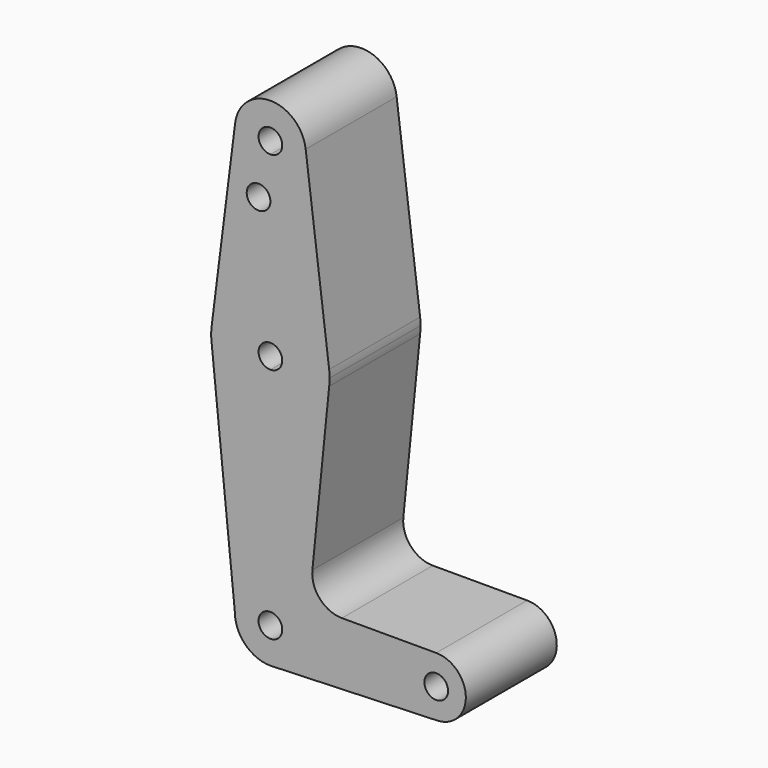
from build123d import *

# Parameters (mm, degrees)
F0_R     = 3.175
F1_DEPTH = 30.48


with BuildPart() as f1:
    # F0 (on Front) → F1 (new body)
    with BuildSketch(Plane.XZ):
        with BuildLine():
            ThreePointArc((3.175, 0), (-2.2450640303, -2.2450640303), (0, 3.175))
            Line((0, 3.175), (0, 9.525))
            ThreePointArc((0, 9.525), (-6.7351920908, 6.7351920908), (-9.525, 0))
            ThreePointArc((-9.525, 0), (-6.7351920908, -6.7351920908), (0, -9.525))
            Line((0, -9.525), (0.6773435479, -9.500885786))
            ThreePointArc((0.6773435479, -9.500885786), (6.9705567315, -6.4912990883), (9.525, 0))
            Line((9.525, 0), (3.175, 0))
        make_face()
        with BuildLine():
            ThreePointArc((-9.525, 0), (-6.7351920908, 6.7351920908), (0, 9.525))
            Line((0, 9.525), (0, 47.625))
            ThreePointArc((0, 47.625), (-10.5003045198, 51.5937314833), (-15.7504812749, 61.51556945))
            Line((-15.7504812749, 61.51556945), (-9.525, 0))
        make_face()
        with BuildLine():
            Line((0, 47.625), (0, 9.525))
            ThreePointArc((0, 9.525), (6.7351920908, 6.7351920908), (9.525, 0))
            Line((9.525, 0), (36.5125, 0))
            ThreePointArc((36.5125, 0), (38.8373399243, 5.6126600757), (44.45, 7.9375))
            Line((44.45, 7.9375), (19.1585847945, 7.9375))
            ThreePointArc((19.1585847945, 7.9375), (13.2627721486, 10.5543077133), (11.2481720528, 16.6820867415))
            Line((11.2481720528, 16.6820867415), (15.7504812749, 61.51556945))
            ThreePointArc((15.7504812749, 61.51556945), (10.5003045198, 51.5937314833), (0, 47.625))
        make_face()
        with BuildLine():
            Line((36.5125, 0), (9.525, 0))
            ThreePointArc((9.525, 0), (6.9705567315, -6.4912990883), (0.6773435479, -9.500885786))
            Line((0.6773435479, -9.500885786), (44.7324052746, -7.9324746146))
            ThreePointArc((44.7324052746, -7.9324746146), (38.9380895153, -5.7116327839), (36.5125, 0))
        make_face()
        with BuildLine():
            ThreePointArc((-15.7504812749, 61.51556945), (-10.5003045198, 51.5937314833), (0, 47.625))
            Line((0, 47.625), (0, 60.325))
            ThreePointArc((0, 60.325), (-3.175, 63.5), (0, 66.675))
            Line((0, 66.675), (0, 79.375))
            ThreePointArc((0, 79.375), (-10.5003045198, 75.4062685167), (-15.7504812749, 65.48443055))
            ThreePointArc((-15.7504812749, 65.48443055), (-15.875, 63.5), (-15.7504812749, 61.51556945))
        make_face()
        with BuildLine():
            Line((0, 60.325), (0, 47.625))
            ThreePointArc((0, 47.625), (10.5003045198, 51.5937314833), (15.7504812749, 61.51556945))
            ThreePointArc((15.7504812749, 61.51556945), (15.8438397373, 62.5058333237), (15.875, 63.5))
            ThreePointArc((15.875, 63.5), (15.8438397373, 64.4941666763), (15.7504812749, 65.48443055))
            ThreePointArc((15.7504812749, 65.48443055), (10.5003045198, 75.4062685167), (0, 79.375))
            Line((0, 79.375), (0, 66.675))
            ThreePointArc((0, 66.675), (2.2450640303, 65.7450640303), (3.175, 63.5))
            ThreePointArc((3.175, 63.5), (2.2450640303, 61.2549359697), (0, 60.325))
        make_face()
        with BuildLine():
            ThreePointArc((44.45, 7.9375), (38.8373399243, 5.6126600757), (36.5125, 0))
            ThreePointArc((36.5125, 0), (38.9380895153, -5.7116327839), (44.7324052746, -7.9324746146))
            ThreePointArc((44.7324052746, -7.9324746146), (50.1616327839, -5.5119104847), (52.3875, 0))
            ThreePointArc((52.3875, 0), (50.0626600757, 5.6126600757), (44.45, 7.9375))
        make_face()
        with BuildLine():
            ThreePointArc((47.625, 0), (44.45, -3.175), (41.275, 0))
            ThreePointArc((41.275, 0), (44.45, 3.175), (47.625, 0))
        make_face(mode=Mode.SUBTRACT)
        with BuildLine():
            ThreePointArc((0, -9.525), (0.3388863295, -9.5189695375), (0.6773435479, -9.500885786))
            Line((0.6773435479, -9.500885786), (0, -9.525))
        make_face()
        with BuildLine():
            Line((-9.4573865922, 115.4329006338), (-15.7504812749, 65.48443055))
            ThreePointArc((-15.7504812749, 65.48443055), (-10.5003045198, 75.4062685167), (0, 79.375))
            Line((0, 79.375), (0, 100.0252))
            Line((0, 100.0252), (0, 104.775))
            ThreePointArc((0, 104.775), (-7.1244825615, 107.9780245784), (-9.4573865922, 115.4329006338))
        make_face()
        with Locations((-3.175, 100.0252)):
            Circle(F0_R, mode=Mode.SUBTRACT)
        with BuildLine():
            Line((0, 100.0252), (0, 79.375))
            ThreePointArc((0, 79.375), (10.5003045198, 75.4062685167), (15.7504812749, 65.48443055))
            Line((15.7504812749, 65.48443055), (9.4573865922, 115.4329006338))
            ThreePointArc((9.4573865922, 115.4329006338), (9.5080816228, 114.8674582405), (9.525, 114.3))
            ThreePointArc((9.525, 114.3), (6.7351920908, 107.5648079092), (0, 104.775))
            Line((0, 104.775), (0, 100.0252))
        make_face()
        with BuildLine():
            ThreePointArc((9.4573865922, 115.4329006338), (0, 123.825), (-9.4573865922, 115.4329006338))
            ThreePointArc((-9.4573865922, 115.4329006338), (-7.1244825615, 107.9780245784), (0, 104.775))
            ThreePointArc((0, 104.775), (6.7351920908, 107.5648079092), (9.525, 114.3))
            ThreePointArc((9.525, 114.3), (9.5080816228, 114.8674582405), (9.4573865922, 115.4329006338))
        make_face()
        with BuildLine():
            ThreePointArc((3.175, 114.3), (2.2450640303, 112.0549359697), (0, 111.125))
            ThreePointArc((0, 111.125), (-2.2450640303, 116.5450640303), (3.175, 114.3))
        make_face(mode=Mode.SUBTRACT)
        with BuildLine():
            Line((0, 9.525), (0, 3.175))
            ThreePointArc((0, 3.175), (2.2450640303, 2.2450640303), (3.175, 0))
            Line((3.175, 0), (9.525, 0))
            ThreePointArc((9.525, 0), (6.7351920908, 6.7351920908), (0, 9.525))
        make_face()
    extrude(amount=F1_DEPTH)


solid = f1.part
